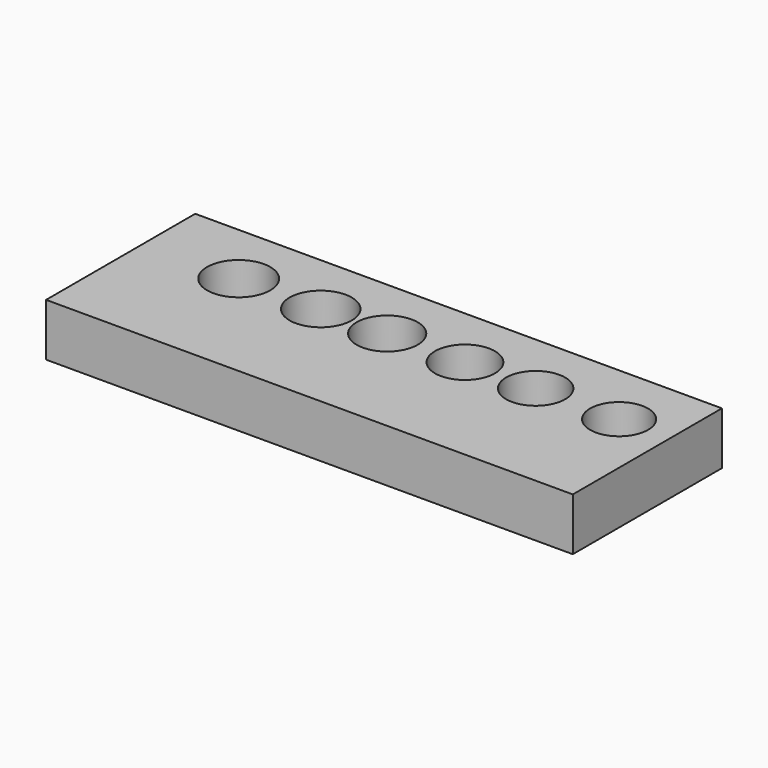
from build123d import *

# Parameters (mm, degrees)
F0_W     = 50
F0_H     = 17.6952143589
F1_DEPTH = 5
F2_D     = 6
F2_DEPTH = 12
F2_TIP   = 1.8025818571
F3_D     = 5.9
F3_DEPTH = 12
F3_TIP   = 1.7725388261
F4_D     = 5.8
F4_DEPTH = 12
F4_TIP   = 1.7424957952
F5_D     = 5.7
F5_DEPTH = 12
F5_TIP   = 1.7124527642
F6_D     = 5.6
F6_DEPTH = 12
F6_TIP   = 1.6824097333
F7_D     = 5.5
F7_DEPTH = 12
F7_TIP   = 1.6523667023


with BuildPart() as f1:
    # F0 (on Top) → F1 (new body)
    with BuildSketch(Plane.XY):
        with Locations((0.0939741731, -0.1879474148)):
            Rectangle(F0_W, F0_H)
    extrude(amount=F1_DEPTH)

    # F2
    with Locations(Plane(origin=(0, 0, 0), x_dir=(1, 0, 0), z_dir=(0, 0, -1))):
        with Locations((-15.8815626055, -2.5372912642)):
            Hole(F2_D / 2, depth=F2_DEPTH)
            with Locations((0, 0, -(F2_DEPTH + F2_TIP / 2))):  # 118° drill point
                Cone(0, F2_D / 2, F2_TIP, mode=Mode.SUBTRACT)

    # F3
    with Locations(Plane(origin=(0, 0, 0), x_dir=(1, 0, 0), z_dir=(0, 0, -1))):
        with Locations((-8.0951671781, -2.5372912642)):
            Hole(F3_D / 2, depth=F3_DEPTH)
            with Locations((0, 0, -(F3_DEPTH + F3_TIP / 2))):  # 118° drill point
                Cone(0, F3_D / 2, F3_TIP, mode=Mode.SUBTRACT)

    # F4
    with Locations(Plane(origin=(0, 0, 0), x_dir=(1, 0, 0), z_dir=(0, 0, -1))):
        with Locations((-1.7855006403, -2.5372912642)):
            Hole(F4_D / 2, depth=F4_DEPTH)
            with Locations((0, 0, -(F4_DEPTH + F4_TIP / 2))):  # 118° drill point
                Cone(0, F4_D / 2, F4_TIP, mode=Mode.SUBTRACT)

    # F5
    with Locations(Plane(origin=(0, 0, 0), x_dir=(1, 0, 0), z_dir=(0, 0, -1))):
        with Locations((5.5981517902, -2.5372912642)):
            Hole(F5_D / 2, depth=F5_DEPTH)
            with Locations((0, 0, -(F5_DEPTH + F5_TIP / 2))):  # 118° drill point
                Cone(0, F5_D / 2, F5_TIP, mode=Mode.SUBTRACT)

    # F6
    with Locations(Plane(origin=(0, 0, 0), x_dir=(1, 0, 0), z_dir=(0, 0, -1))):
        with Locations((12.3105607927, -2.5372912642)):
            Hole(F6_D / 2, depth=F6_DEPTH)
            with Locations((0, 0, -(F6_DEPTH + F6_TIP / 2))):  # 118° drill point
                Cone(0, F6_D / 2, F6_TIP, mode=Mode.SUBTRACT)

    # F7
    with Locations(Plane(origin=(0, 0, 0), x_dir=(1, 0, 0), z_dir=(0, 0, -1))):
        with Locations((20.2312065022, -2.5372912642)):
            Hole(F7_D / 2, depth=F7_DEPTH)
            with Locations((0, 0, -(F7_DEPTH + F7_TIP / 2))):  # 118° drill point
                Cone(0, F7_D / 2, F7_TIP, mode=Mode.SUBTRACT)


solid = f1.part
